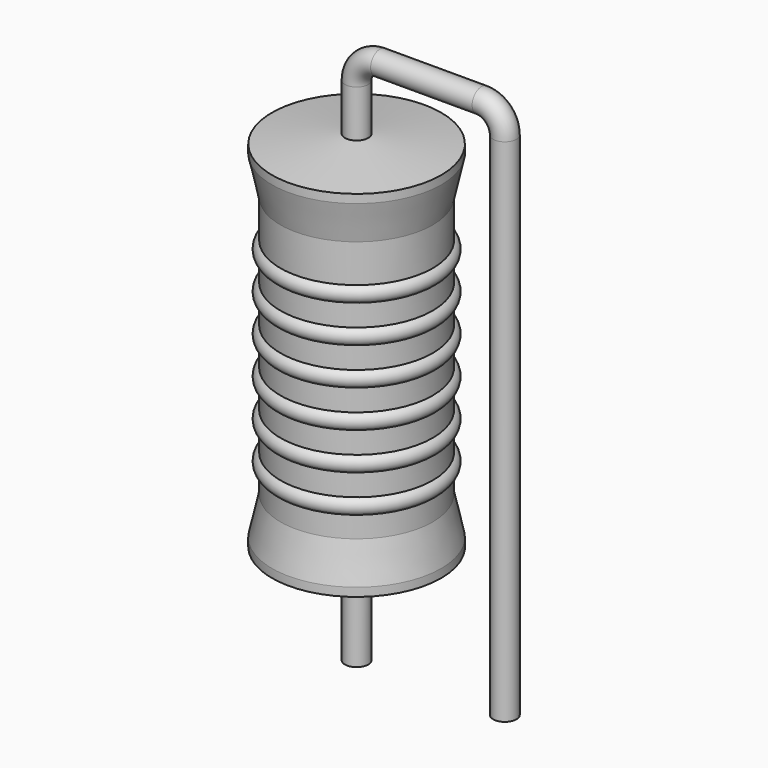
from build123d import *

# Parameters (mm, degrees)
SKETCH_R = 0.4


with BuildPart() as revolution:
    # Sketch002 → Revolution (revolve)
    with BuildSketch(Plane.XZ):
        Polygon((0, 0.1), (0, 12.9), (0.3, 12.9), (2.9, 12.58), (2.9, 12.2875), (2.61, 10.98), (2.61, 2.02), (2.9, 0.7125), (2.9, 0.42), (0.3, 0.1), align=None)
    revolve(axis=Axis((0, 0, 0), (0, 0, 1)))


with BuildPart() as revolution001:
    # Sketch003 → Revolution001 (revolve)
    with BuildSketch(Plane.XZ):
        with BuildLine():
            Line((2.32, 10.4), (2.32, 2.02))
            Line((2.32, 2.02), (2.494, 2.02))
            Line((2.494, 2.02), (2.494, 2.72))
            ThreePointArc((2.494, 2.72), (2.784, 3.01), (2.494, 3.3))
            Line((2.494, 3.3), (2.494, 4))
            ThreePointArc((2.494, 4), (2.784, 4.29), (2.494, 4.58))
            Line((2.494, 4.58), (2.494, 5.28))
            ThreePointArc((2.494, 5.28), (2.784, 5.57), (2.494, 5.86))
            Line((2.494, 5.86), (2.494, 6.56))
            ThreePointArc((2.494, 6.56), (2.784, 6.85), (2.494, 7.14))
            Line((2.494, 7.14), (2.494, 7.84))
            ThreePointArc((2.494, 7.84), (2.784, 8.13), (2.494, 8.42))
            Line((2.494, 8.42), (2.494, 9.12))
            ThreePointArc((2.494, 9.12), (2.784, 9.41), (2.494, 9.7))
            Line((2.494, 10.4), (2.494, 9.7))
            Line((2.32, 10.4), (2.494, 10.4))
        make_face()
    revolve(axis=Axis((0, 0, 0), (0, 0, 1)))


with BuildPart() as obj1:
    # Sweep: sweep along a path in Sketch001
    with BuildLine(Plane.XZ) as sweep_path:
        Line((0, -3), (0, 14.5))
        ThreePointArc((0, 14.5), (0.23431, 15.065681), (0.799987, 15.3))
        Line((0.799987, 15.3), (4.28, 15.3))
        ThreePointArc((4.28, 15.3), (4.845685, 15.065685), (5.08, 14.5))
        Line((5.08, 14.5), (5.08, -3))
    # Sketch → Sweep (sweep)
    with BuildSketch(Plane.XY.offset(-2)):
        Circle(SKETCH_R)
    sweep(path=sweep_path.line)

    # obj1: union Revolution, Revolution001
    add(revolution.part)
    add(revolution001.part)


solid = obj1.part
